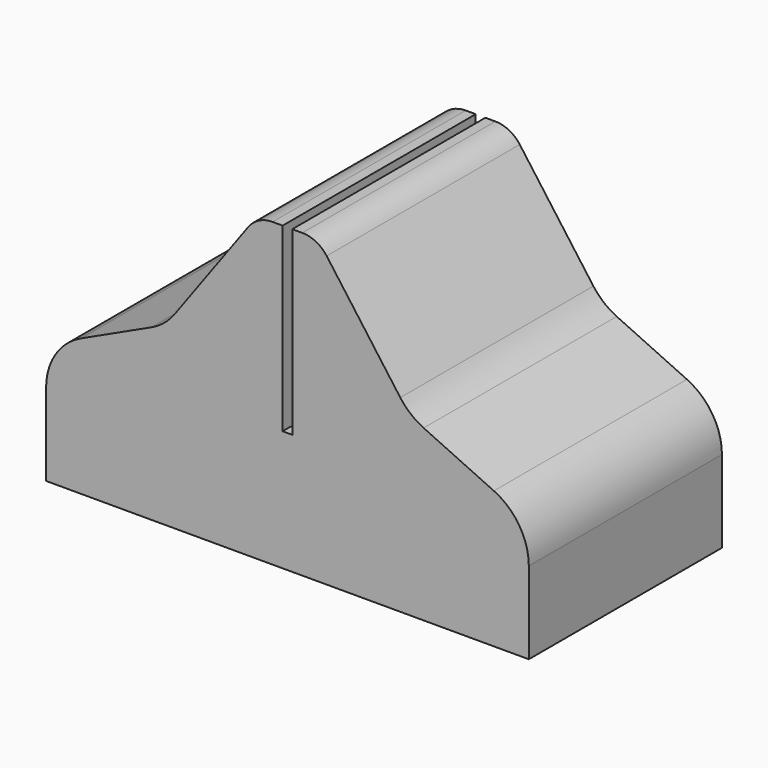
from build123d import *

# Parameters (mm, degrees)
F1_DEPTH = 12.7
F2_R     = 6.35
F3_R     = 3.175


with BuildPart() as f1:
    # F0 (on Front) → F1 (new body, symmetric)
    with BuildSketch(Plane.XZ):
        Polygon((-25.4, 0), (25.4, 0), (25.4, 12.7), (12.842343, 18.521002), (3.175, 31.75), (0.508, 31.75), (0.508, 12.7), (-0.508, 12.7), (-0.508, 31.75), (-3.175, 31.75), (-12.842343, 18.521002), (-25.4, 12.7), align=None)
    extrude(amount=F1_DEPTH, both=True)

    # F2
    f2_edges = [f1.edges().sort_by_distance(p)[0] for p in [
        (25.4, 0, 12.7),
        (12.842343, 0, 18.521002),
        (-12.842343, 0, 18.521002),
        (-25.4, 0, 12.7),
    ]]
    fillet(f2_edges, radius=F2_R)

    # F3
    f3_edges = [f1.edges().sort_by_distance(p)[0] for p in [
        (3.175, 0, 31.75),
        (-3.175, 0, 31.75),
    ]]
    fillet(f3_edges, radius=F3_R)


solid = f1.part
